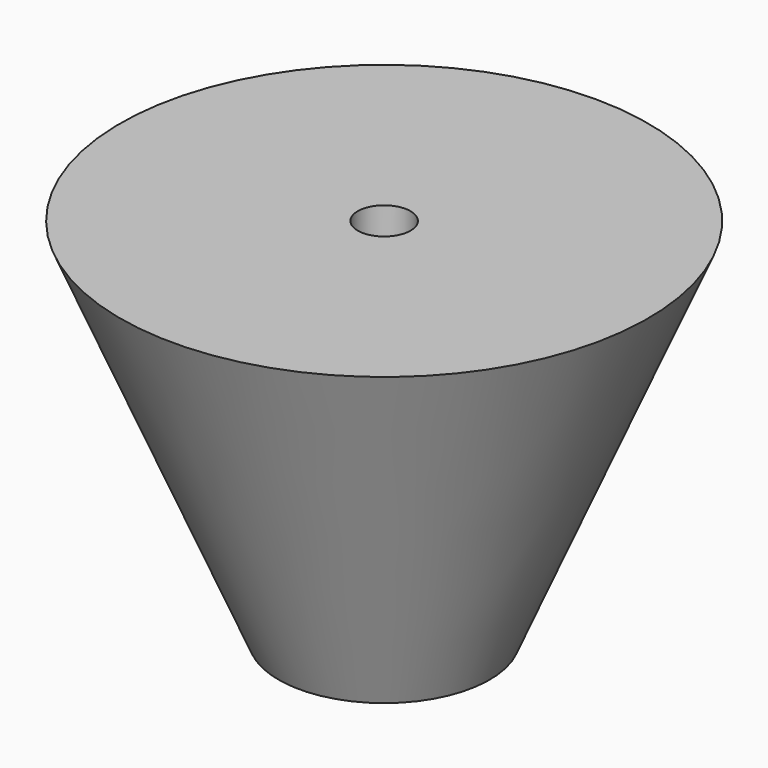
from build123d import *

# Parameters (mm, degrees)
F2_R     = 2.5
F3_DEPTH = 35.001
F4_R     = 5
F4_R_2   = 2.5
F5_DEPTH = 20


with BuildPart() as f1:
    # F0 (on Right) → F1 (revolve)
    with BuildSketch(Plane.YZ):
        Polygon((25, 0), (0, 0), (0, -35), (10, -35), align=None)
    revolve(axis=Axis((0, 0, -17.5), (0, 0, 1)))

    # F2 (on face) → F3 (cut, through all)
    with BuildSketch(Plane.XY):
        Circle(F2_R)
    extrude(amount=-F3_DEPTH, mode=Mode.SUBTRACT)

    # F4 (on face) → F5 (cut)
    with BuildSketch(Plane(origin=(0, 0, -35), x_dir=(1, 0, 0), z_dir=(0, 0, -1))):
        Circle(F4_R)
        Circle(F4_R_2, mode=Mode.SUBTRACT)
    extrude(amount=-F5_DEPTH, mode=Mode.SUBTRACT)


solid = f1.part
